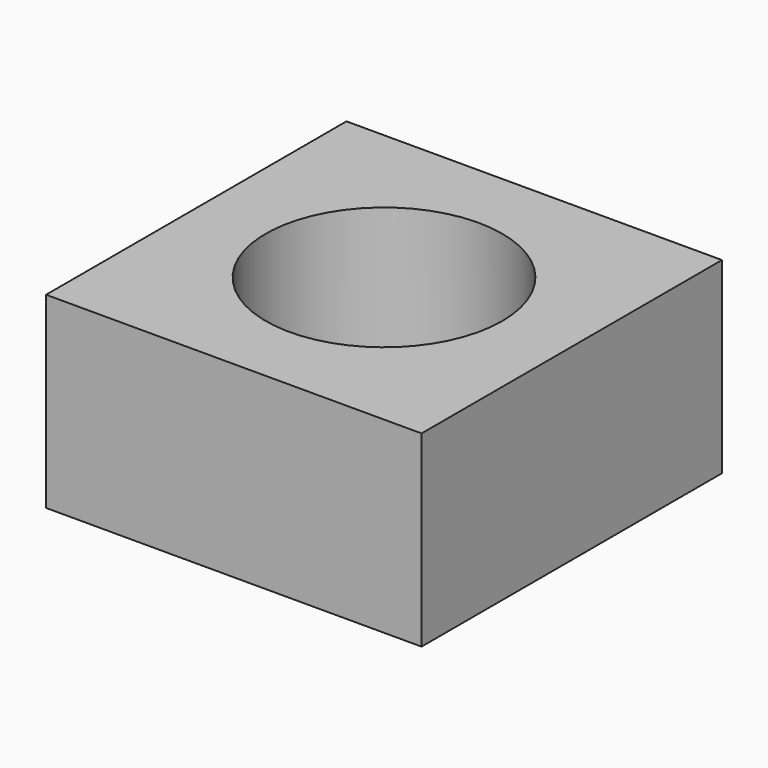
from build123d import *

# Parameters (mm, degrees)
CYLINDER033_R     = 4
CYLINDER033_DEPTH = 10
BOX012_W          = 12.7
BOX012_H          = 12.7
BOX012_DEPTH      = 6.35


with BuildPart() as cylinder033:
    # Cylinder033 → Cylinder033 (new body)
    with BuildSketch(Plane(origin=(6.35, 6.35, 0), x_dir=(1, 0, 0), z_dir=(0, 0, 1))):
        Circle(CYLINDER033_R)
    extrude(amount=CYLINDER033_DEPTH)


with BuildPart() as m8_nut:
    # Box012 → Box012 (new body)
    with BuildSketch(Plane.XY):
        with Locations((6.35, 6.35)):
            Rectangle(BOX012_W, BOX012_H)
    extrude(amount=BOX012_DEPTH)

    # Cut010: cut Cylinder033
    add(cylinder033.part, mode=Mode.SUBTRACT)


solid = m8_nut.part
